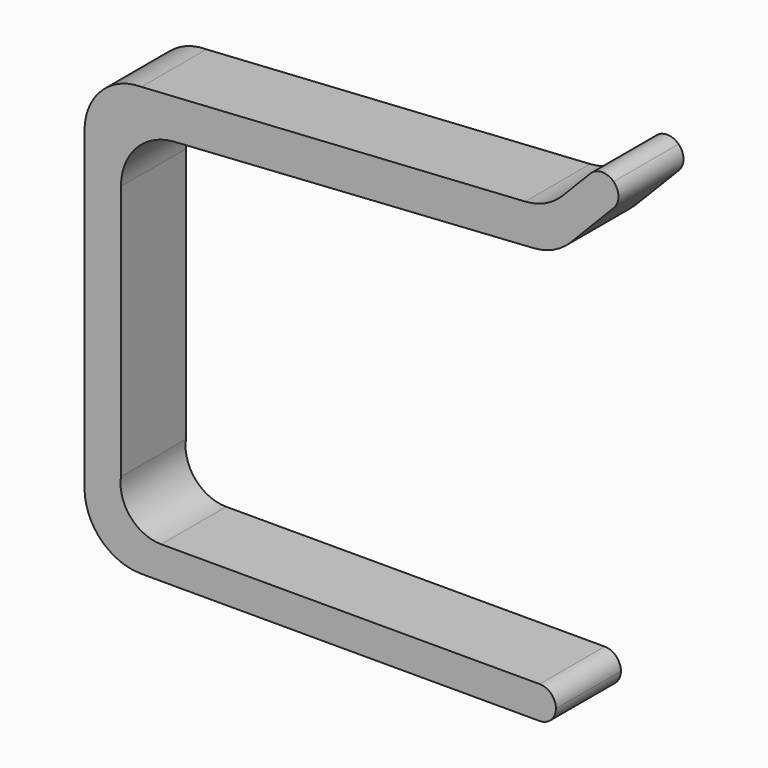
from build123d import *

# Parameters (mm, degrees)
F1_DEPTH = 100
F2_DEPTH = 100


with BuildPart() as f1:
    # F0 (on Front) → F1 (new body)
    with BuildSketch(Plane.XZ):
        Polygon((-1.050213, 421.107262), (-1.050213, 127.018228), (43.746866, 127.018228), (43.746866, 401.559775), (43.746866, 421.107262), align=None)
        with BuildLine():
            Line((68.949787, 17.862118), (558.949787, 17.862118))
            ThreePointArc((558.949787, 17.862118), (573.091923, 23.719982), (578.949787, 37.862118))
            ThreePointArc((578.949787, 37.862118), (573.091923, 52.004254), (558.949787, 57.862118))
            Line((558.949787, 57.862118), (93.234972, 57.862118))
            ThreePointArc((93.234972, 57.862118), (55.440679, 75.126947), (43.746866, 114.998462))
            Line((43.746866, 114.998462), (43.746866, 127.018228))
            Line((43.746866, 127.018228), (-1.050213, 127.018228))
            Line((-1.050213, 127.018228), (-1.050213, 87.862118))
            ThreePointArc((-1.050213, 87.862118), (19.452313, 38.364643), (68.949787, 17.862118))
        make_face()
    extrude(amount=F1_DEPTH)

    # F0 (on Front) → F2 (join)
    with BuildSketch(Plane.XZ):
        with BuildLine():
            Line((-1.050213, 475.402151), (-1.050213, 421.107262))
            Line((-1.050213, 421.107262), (43.746866, 421.107262))
            Line((43.746866, 421.107262), (43.746866, 429.263274))
            ThreePointArc((43.746866, 429.263274), (62.680399, 477.140366), (109.23875, 499.117958))
            Line((109.23875, 499.117958), (551.378824, 527.651749))
            ThreePointArc((551.378824, 527.651749), (576.168223, 533.932416), (597.047533, 548.697763))
            Line((597.047533, 548.697763), (650.293842, 603.43662))
            ThreePointArc((650.293842, 603.43662), (655.955871, 617.645399), (649.921516, 631.700097))
            Line((649.921516, 631.700097), (649.902964, 631.71819))
            ThreePointArc((649.902964, 631.71819), (635.688573, 637.398478), (621.620911, 631.363955))
            Line((621.620911, 631.363955), (586.867442, 595.728865))
            ThreePointArc((586.867442, 595.728865), (565.934248, 580.974648), (541.095148, 574.737292))
            Line((541.095148, 574.737292), (68.989744, 545.402139))
            ThreePointArc((68.989744, 545.402139), (19.466441, 524.91375), (-1.050213, 475.402151))
        make_face()
    extrude(amount=F2_DEPTH)


solid = f1.part
